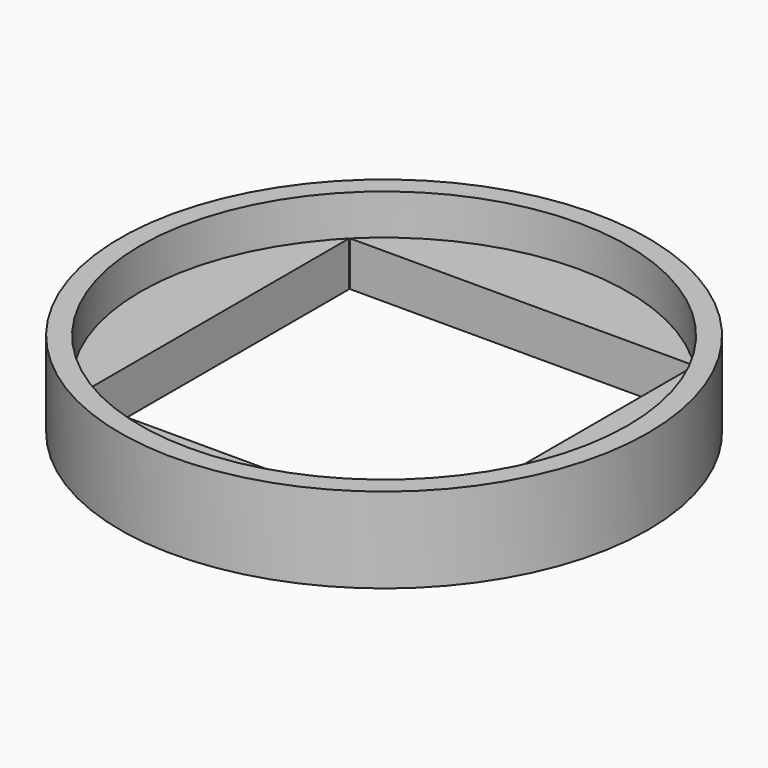
from build123d import *

# Parameters (mm, degrees)
F0_R     = 41.275
F0_R_2   = 38.1
F2_DEPTH = 13.335
F3_DEPTH = 6.985


with BuildPart() as f2:
    # F0 (on Top) → F2 (new body)
    with BuildSketch(Plane.XY):
        Circle(F0_R)
        Circle(F0_R_2, mode=Mode.SUBTRACT)
    extrude(amount=F2_DEPTH)

    # F1 (on face) → F3 (join)
    with BuildSketch(Plane.XY):
        with BuildLine():
            ThreePointArc((-26.9875, 26.8939555244), (-27.7941461706, 26.0594596768), (-28.575, 25.2007812379))
            Line((-28.575, 25.2007812379), (-28.575, -25.2007812379))
            ThreePointArc((-28.575, -25.2007812379), (-27.7941461706, -26.0594596768), (-26.9875, -26.8939555244))
            Line((-26.9875, -26.8939555244), (-26.9875, 26.8939555244))
        make_face()
        with BuildLine():
            ThreePointArc((26.8939555244, 26.9875), (26.0594596768, 27.7941461706), (25.2007812379, 28.575))
            Line((25.2007812379, 28.575), (-25.2007812379, 28.575))
            ThreePointArc((-25.2007812379, 28.575), (-26.0594596768, 27.7941461706), (-26.8939555244, 26.9875))
            Line((-26.8939555244, 26.9875), (26.8939555244, 26.9875))
        make_face()
        with BuildLine():
            Line((28.575, -25.2007812379), (28.575, 25.2007812379))
            ThreePointArc((28.575, 25.2007812379), (27.7941461706, 26.0594596768), (26.9875, 26.8939555244))
            Line((26.9875, 26.8939555244), (26.9875, -26.8939555244))
            ThreePointArc((26.9875, -26.8939555244), (27.7941461706, -26.0594596768), (28.575, -25.2007812379))
        make_face()
        with BuildLine():
            Line((-25.2007812379, -28.575), (25.2007812379, -28.575))
            ThreePointArc((25.2007812379, -28.575), (26.0594596768, -27.7941461706), (26.8939555244, -26.9875))
            Line((26.8939555244, -26.9875), (-26.8939555244, -26.9875))
            ThreePointArc((-26.8939555244, -26.9875), (-26.0594596768, -27.7941461706), (-25.2007812379, -28.575))
        make_face()
        with BuildLine():
            Line((-25.2007812379, 28.575), (25.2007812379, 28.575))
            ThreePointArc((25.2007812379, 28.575), (0, 38.1), (-25.2007812379, 28.575))
        make_face()
        with BuildLine():
            Line((-28.575, -25.2007812379), (-28.575, 25.2007812379))
            ThreePointArc((-28.575, 25.2007812379), (-38.1, 0), (-28.575, -25.2007812379))
        make_face()
        with BuildLine():
            ThreePointArc((-25.2007812379, -28.575), (0, -38.1), (25.2007812379, -28.575))
            Line((25.2007812379, -28.575), (-25.2007812379, -28.575))
        make_face()
        with BuildLine():
            ThreePointArc((38.1, 0), (35.639286609, 13.4703841816), (28.575, 25.2007812379))
            Line((28.575, 25.2007812379), (28.575, -25.2007812379))
            ThreePointArc((28.575, -25.2007812379), (35.639286609, -13.4703841816), (38.1, 0))
        make_face()
    extrude(amount=F3_DEPTH)


solid = f2.part
